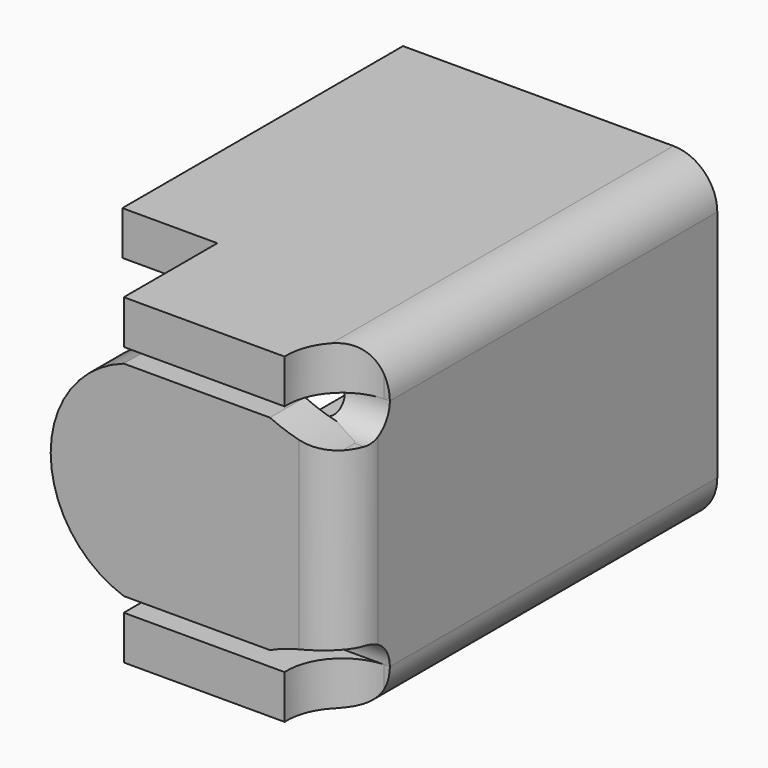
from build123d import *

# Parameters (mm, degrees)
PAD015_DEPTH = 0.3
PAD016_DEPTH = 0.3
PAD017_DEPTH = 0.3
PAD013_DEPTH = 0.3
FILLET002_R  = 0.3
FILLET003_R  = 0.08


with BuildPart() as body015:
    # Sketch015 → Pad015 (new body)
    with BuildSketch(Plane.XZ.offset(2.4)):
        with BuildLine():
            Line((9.4, 1.8), (8.4, 1.8))
            ThreePointArc((8.4, 1.8), (7.9, 1.1), (8.4, 0.4))
            Line((8.4, 0.4), (9.4, 0.4))
            ThreePointArc((9.9, 0.5), (9.644126, 0.479372), (9.4, 0.4))
            Line((9.9, 0.5), (9.9, 1.7))
            ThreePointArc((9.4, 1.8), (9.644126, 1.720628), (9.9, 1.7))
        make_face()
    extrude(amount=-PAD015_DEPTH)


with BuildPart() as body016:
    # Sketch016 → Pad016 (new body)
    with BuildSketch(Plane.XY):
        with BuildLine():
            Line((9.5, -2.4), (8.4, -2.4))
            Line((8.4, -2.4), (8.4, -1.6))
            Line((8.4, -1.6), (7.75, -1.6))
            Line((7.75, -1.6), (7.75, 0.8))
            Line((7.75, 0.8), (9.9, 0.8))
            Line((9.9, 0.8), (9.9, -2))
            ThreePointArc((9.9, -2), (9.610743, -2.110743), (9.5, -2.4))
        make_face()
    extrude(amount=PAD016_DEPTH)


with BuildPart() as body017:
    # Sketch017 → Pad017 (new body)
    with BuildSketch(Plane.XY.offset(1.9)):
        with BuildLine():
            Line((9.5, -2.4), (8.4, -2.4))
            Line((8.4, -2.4), (8.4, -1.6))
            Line((8.4, -1.6), (7.75, -1.6))
            Line((7.75, -1.6), (7.75, 0.8))
            Line((7.75, 0.8), (9.9, 0.8))
            Line((9.9, 0.8), (9.9, -2))
            ThreePointArc((9.9, -2), (9.610743, -2.110743), (9.5, -2.4))
        make_face()
    extrude(amount=PAD017_DEPTH)


with BuildPart() as fillet003:
    # Sketch013 → Pad013 (new body)
    with BuildSketch(Plane.YZ.offset(9.9)):
        with BuildLine():
            Line((0.8, 2.2), (0.8, 0))
            Line((0.8, 0), (-2, 0))
            Line((-2, 0), (-2, 0.3))
            ThreePointArc((-2, 0.3), (-2.058579, 0.441421), (-2.2, 0.5))
            Line((-2.2, 0.5), (-2.4, 0.5))
            Line((-2.4, 1.7), (-2.4, 0.5))
            Line((-2.2, 1.7), (-2.4, 1.7))
            ThreePointArc((-2.2, 1.7), (-2.058579, 1.758579), (-2, 1.9))
            Line((-2, 1.9), (-2, 2.2))
            Line((-2, 2.2), (0.8, 2.2))
        make_face()
    extrude(amount=-PAD013_DEPTH)

    # Fusion002: union Body015, Body016, Body017
    add(body015.part)
    add(body016.part)
    add(body017.part)

    # Fillet002
    fillet002_edges = [fillet003.edges().sort_by_distance(p)[0] for p in [
        (9.9, -2.4, 1.1),
        (9.9, -0.6, 0),
        (9.9, -0.6, 2.2),
    ]]
    fillet(fillet002_edges, radius=FILLET002_R)

    # Fillet003
    fillet003_edges = [fillet003.edges().sort_by_distance(p)[0] for p in [
        (9.6, -2.1, 1.1),
        (9.6, -0.6, 0.3),
        (9.6, -0.6, 1.9),
    ]]
    fillet(fillet003_edges, radius=FILLET003_R)


solid = fillet003.part
